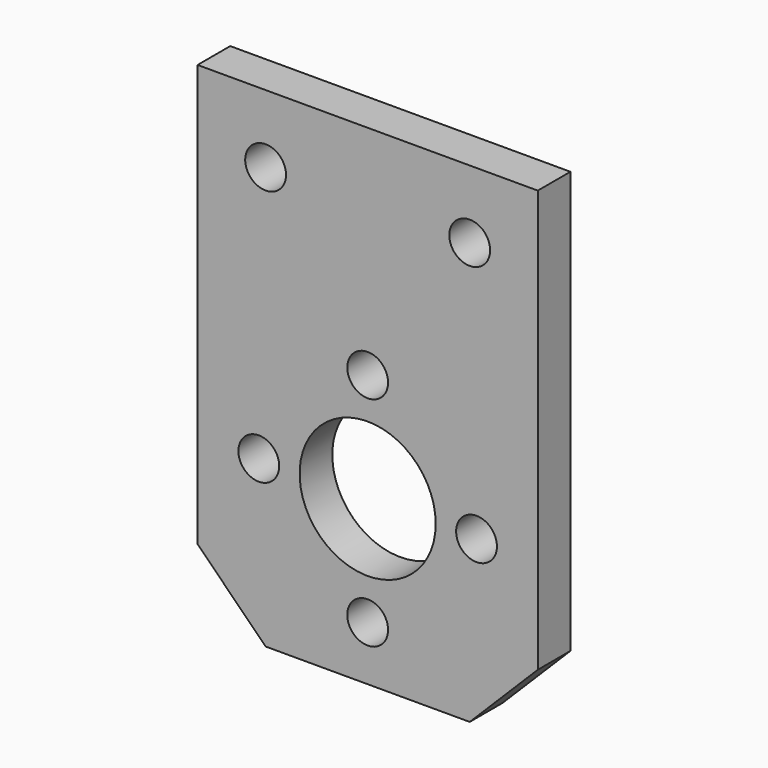
from build123d import *

# Parameters (mm, degrees)
F0_W     = 25
F0_H     = 36
F0_R     = 1.5
F0_R_2   = 5
F1_DEPTH = 3
F2_SIZE  = 5


with BuildPart() as f1:
    # F0 (on Front) → F1 (new body)
    with BuildSketch(Plane.XZ):
        with Locations((0, 6)):
            Rectangle(F0_W, F0_H)
        with Locations((-8, 0)):
            Circle(F0_R, mode=Mode.SUBTRACT)
        with Locations((0, -8)):
            Circle(F0_R, mode=Mode.SUBTRACT)
        Circle(F0_R_2, mode=Mode.SUBTRACT)
        with Locations((8, 0)):
            Circle(F0_R, mode=Mode.SUBTRACT)
        with Locations((-7.5, 19)):
            Circle(F0_R, mode=Mode.SUBTRACT)
        with Locations((0, 8)):
            Circle(F0_R, mode=Mode.SUBTRACT)
        with Locations((7.5, 19)):
            Circle(F0_R, mode=Mode.SUBTRACT)
    extrude(amount=F1_DEPTH)

    # F2
    f2_edges = [f1.edges().sort_by_distance(p)[0] for p in [
        (-12.5, -1.5, -12),
        (12.5, -1.5, -12),
    ]]
    chamfer(f2_edges, length=F2_SIZE)


solid = f1.part
